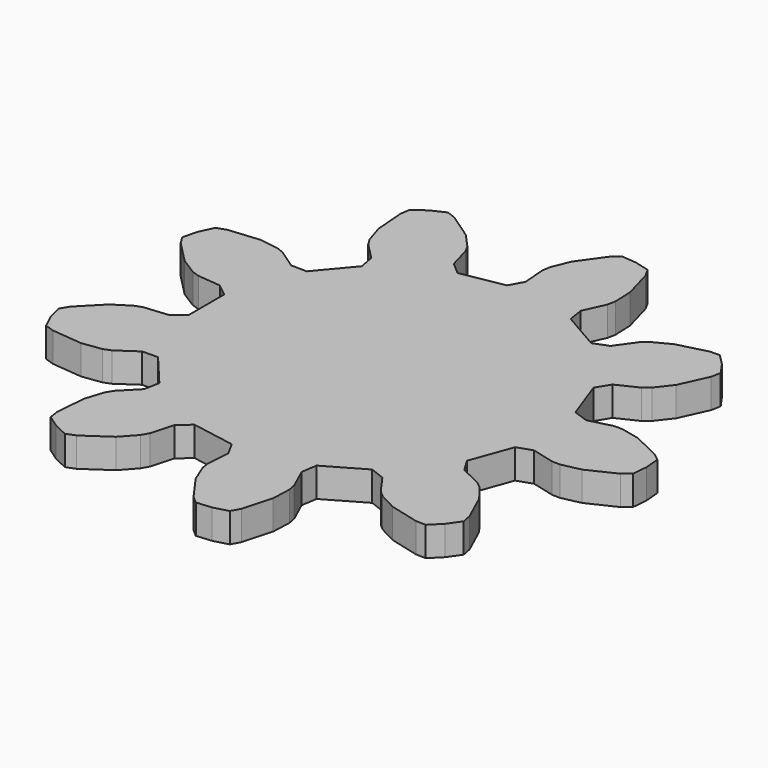
from build123d import *

# Parameters (mm, degrees)
F1_DEPTH = 2.54


with BuildPart() as f1:
    # F0 (on Top) → F1 (new body)
    with BuildSketch(Plane.XY):
        Polygon((15.546987, -15.963222), (16.390529, -15.979688), (17.319008, -15.051209), (18.072152, -13.975608), (17.909457, -13.14774), (16.810267, -10.730381), (15.783584, -9.406071), (15.241934, -8.9693), (13.41697, -8.096944), (12.711619, -6.928926), (14.012052, -3.356017), (15.303169, -2.914654), (17.261912, -3.419454), (17.957592, -3.433034), (19.595327, -3.078493), (21.991203, -1.933234), (22.647978, -1.403629), (22.762419, -0.095559), (22.647978, 1.212511), (21.991203, 1.742116), (19.595327, 2.887375), (17.957592, 3.241916), (17.261912, 3.228336), (15.303169, 2.723536), (14.012052, 3.164899), (12.711619, 6.737808), (13.41697, 7.905826), (15.241934, 8.778182), (15.783584, 9.214953), (16.810267, 10.539263), (17.909457, 12.956622), (18.072152, 13.78449), (17.319008, 14.860091), (16.390529, 15.78857), (15.546987, 15.772104), (12.975481, 15.109383), (11.493009, 14.328262), (10.968816, 13.870685), (9.792812, 12.224929), (8.520056, 11.733119), (5.227245, 13.634224), (5.016787, 14.982369), (5.854051, 16.823696), (5.988228, 17.506449), (5.923463, 19.180868), (5.211642, 21.739218), (4.804131, 22.477979), (3.535806, 22.817826), (2.227736, 22.932268), (1.592129, 22.377436), (0.04823, 20.21683), (-0.585315, 18.665542), (-0.692745, 17.978073), (-0.535745, 15.96143), (-1.194603, 14.766569), (-4.93905, 14.106322), (-5.96684, 15.003781), (-6.509041, 16.952503), (-6.845121, 17.561769), (-7.97103, 18.802818), (-10.160792, 20.305079), (-10.94783, 20.60906), (-12.137873, 20.054134), (-13.213474, 19.30099), (-13.343738, 18.467404), (-13.137623, 15.819884), (-12.625797, 14.224294), (-12.266197, 13.628607), (-10.849655, 12.184687), (-10.586328, 10.845865), (-13.030342, 7.933202), (-14.394551, 7.960045), (-16.062515, 9.104332), (-16.711595, 9.355029), (-18.371823, 9.582008), (-21.014912, 9.325254), (-21.813214, 9.052219), (-22.36814, 7.862176), (-22.707986, 6.593851), (-22.271956, 5.871555), (-20.41227, 3.975926), (-18.994563, 3.082628), (-18.336193, 2.857452), (-16.322925, 2.66188), (-15.260626, 1.805546), (-15.260626, -1.996664), (-16.322925, -2.852998), (-18.336193, -3.04857), (-18.994563, -3.273746), (-20.41227, -4.167044), (-22.271956, -6.062673), (-22.707986, -6.784969), (-22.36814, -8.053294), (-21.813214, -9.243337), (-21.014912, -9.516372), (-18.371823, -9.773126), (-16.711595, -9.546147), (-16.062515, -9.29545), (-14.394551, -8.151163), (-13.030342, -8.12432), (-10.586328, -11.036983), (-10.849655, -12.375805), (-12.266197, -13.819725), (-12.625797, -14.415412), (-13.137623, -16.011002), (-13.343738, -18.658522), (-13.213474, -19.492108), (-12.137873, -20.245252), (-10.94783, -20.800178), (-10.160792, -20.496197), (-7.97103, -18.993936), (-6.845121, -17.752887), (-6.509041, -17.143621), (-5.96684, -15.194899), (-4.93905, -14.29744), (-1.194603, -14.957687), (-0.535745, -16.152548), (-0.692745, -18.169191), (-0.585315, -18.85666), (0.04823, -20.407948), (1.592129, -22.568554), (2.227736, -23.123386), (3.535806, -23.008944), (4.804131, -22.669097), (5.211642, -21.930336), (5.923463, -19.371986), (5.988228, -17.697567), (5.854051, -17.014814), (5.016787, -15.173487), (5.227245, -13.825342), (8.520056, -11.924237), (9.792812, -12.416047), (10.968816, -14.061803), (11.493009, -14.51938), (12.975481, -15.300501), align=None)
    extrude(amount=F1_DEPTH)


solid = f1.part
